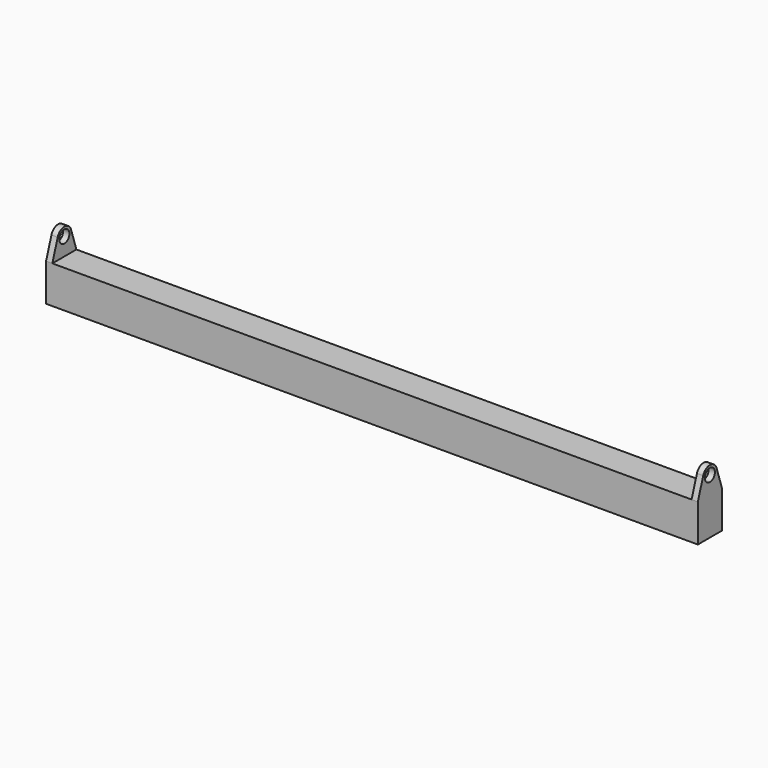
from build123d import *

# Parameters (mm, degrees)
F0_W     = 2600
F0_H     = 120
F1_DEPTH = 150
F3_DEPTH = 25
F5_DEPTH = 25
F7_R     = 25
F8_DEPTH = 3000


with BuildPart() as f1:
    # F0 (on Top) → F1 (new body)
    with BuildSketch(Plane.XY):
        with Locations((1300, 60)):
            Rectangle(F0_W, F0_H)
    extrude(amount=F1_DEPTH)

    # F2 (on Right) → F3 (join)
    with BuildSketch(Plane.YZ):
        with BuildLine():
            Line((26.7683122543, 230.984303782), (0, 150))
            Line((0, 150), (120, 150))
            Line((120, 150), (93.2316877457, 230.984303782))
            ThreePointArc((93.2316877457, 230.984303782), (60, 255), (26.7683122543, 230.984303782))
        make_face()
    extrude(amount=F3_DEPTH)


with BuildPart() as f5:
    # F4 (on face) → F5 (new body)
    with BuildSketch(Plane.YZ.offset(2600)):
        with BuildLine():
            Line((26.7683122543, 230.984303782), (0, 150))
            Line((0, 150), (120, 150))
            Line((120, 150), (93.2316877457, 230.984303782))
            ThreePointArc((93.2316877457, 230.984303782), (60, 255), (26.7683122543, 230.984303782))
        make_face()
    extrude(amount=-F5_DEPTH)


with BuildPart() as f1_1:
    add(f1.part)

    # F6: union F5
    add(f5.part)

    # F7 (on face) → F8 (cut)
    with BuildSketch(Plane.YZ.offset(2600)):
        with Locations((60, 220)):
            Circle(F7_R)
    extrude(amount=-F8_DEPTH, mode=Mode.SUBTRACT)


solid = f1_1.part
